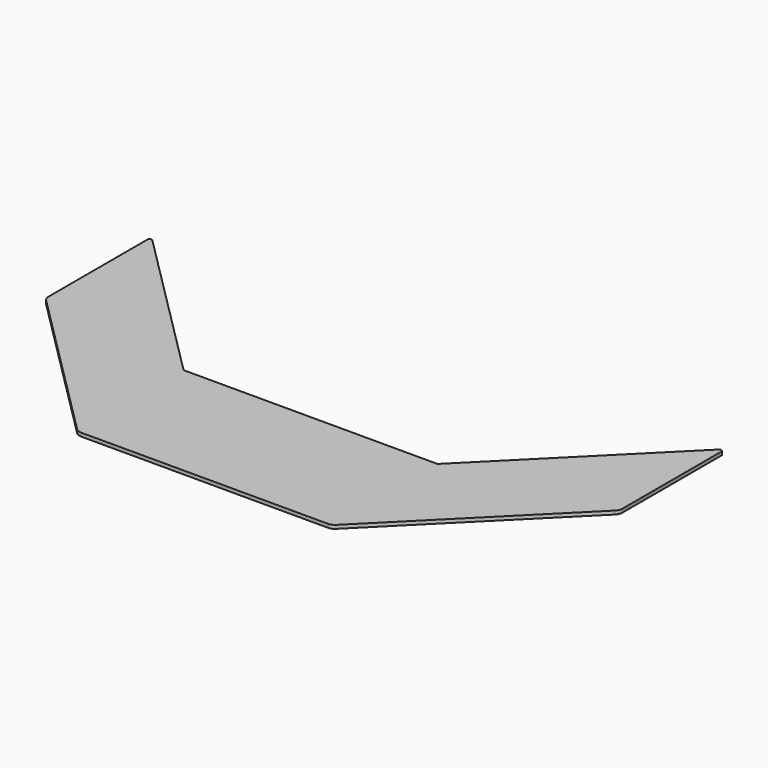
from build123d import *

# Parameters (mm, degrees)
F1_DEPTH = 8


with BuildPart() as f1:
    # F0 (on Top) → F1 (new body)
    with BuildSketch(Plane.XY):
        with BuildLine():
            Line((287.5, 150), (-287.5, 150))
            Line((-287.5, 150), (-641.464466, 503.964466))
            ThreePointArc((-641.464466, 503.964466), (-646.913417, 505.04833), (-650, 500.428932))
            Line((-650, 500.428932), (-650, 220.784271))
            ThreePointArc((-650, 220.784271), (-648.477591, 213.130603), (-644.142136, 206.642136))
            Line((-644.142136, 206.642136), (-293.357864, -144.142136))
            ThreePointArc((-293.357864, -144.142136), (-286.869397, -148.477591), (-279.215729, -150))
            Line((-279.215729, -150), (279.215729, -150))
            ThreePointArc((279.215729, -150), (286.869397, -148.477591), (293.357864, -144.142136))
            Line((293.357864, -144.142136), (644.142136, 206.642136))
            ThreePointArc((644.142136, 206.642136), (648.477591, 213.130603), (650, 220.784271))
            Line((650, 220.784271), (650, 500.428932))
            ThreePointArc((650, 500.428932), (646.913417, 505.04833), (641.464466, 503.964466))
            Line((641.464466, 503.964466), (287.5, 150))
        make_face()
    extrude(amount=F1_DEPTH)


solid = f1.part
